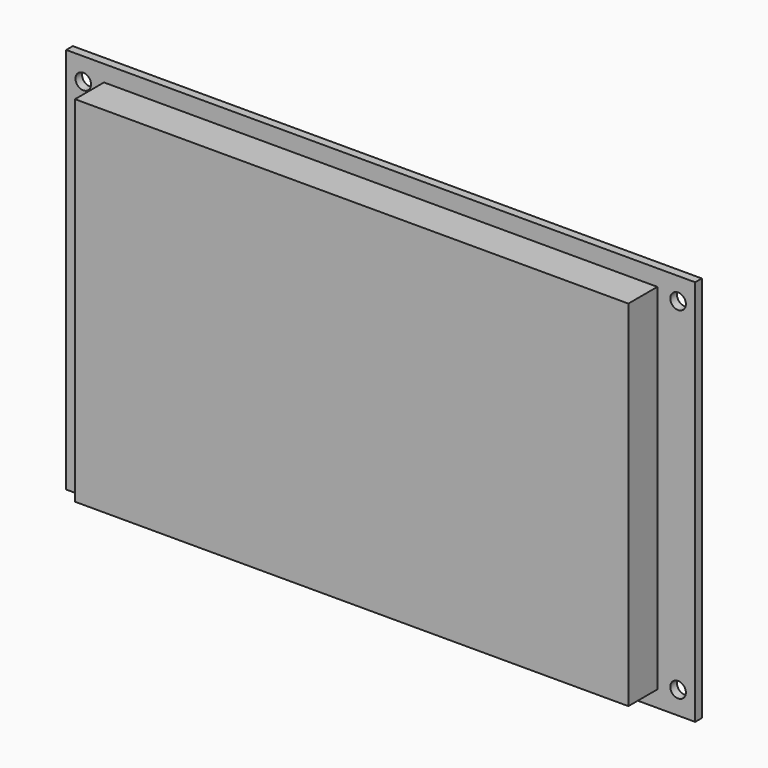
from build123d import *

# Parameters (mm, degrees)
F0_W     = 121.4
F0_H     = 74.7
F0_R     = 1.5
F1_DEPTH = 1.6
F2_W     = 106.8
F2_H     = 68.4
F3_DEPTH = 7


with BuildPart() as f1:
    # F0 (on Front) → F1 (new body)
    with BuildSketch(Plane.XZ):
        Rectangle(F0_W, F0_H)
        with Locations((-57.4, -32.95)):
            Circle(F0_R, mode=Mode.SUBTRACT)
        with Locations((57.4, -32.95)):
            Circle(F0_R, mode=Mode.SUBTRACT)
        with Locations((-57.4, 33.05)):
            Circle(F0_R, mode=Mode.SUBTRACT)
        with Locations((57.4, 33.05)):
            Circle(F0_R, mode=Mode.SUBTRACT)
    extrude(amount=-F1_DEPTH)


with BuildPart() as f3:
    # F2 (on face) → F3 (new body)
    with BuildSketch(Plane.XZ):
        Rectangle(F2_W, F2_H)
    extrude(amount=F3_DEPTH)


solid = Compound([f1.part, f3.part])
